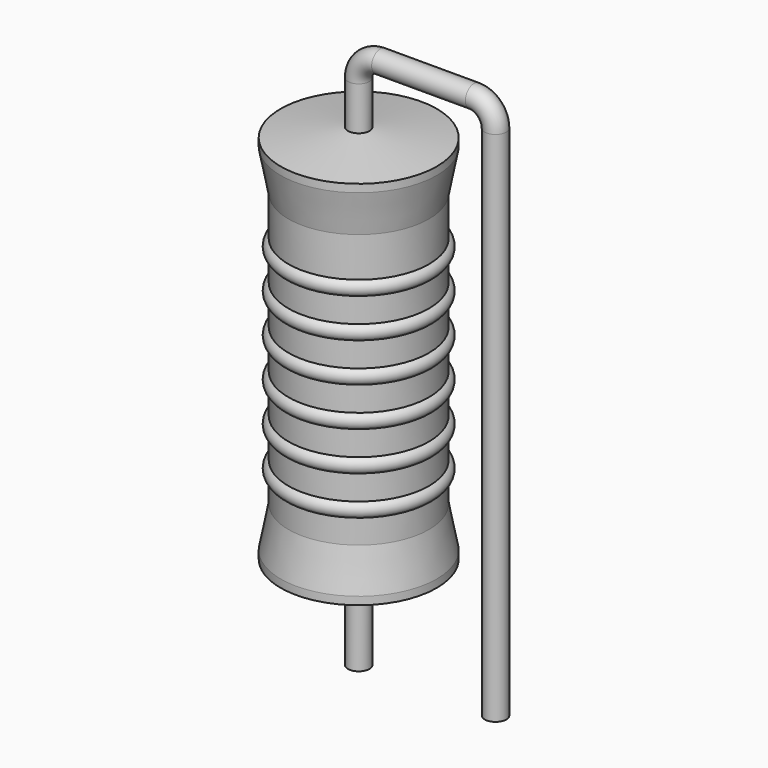
from build123d import *

# Parameters (mm, degrees)
SKETCH_R = 0.4


with BuildPart() as revolution:
    # Sketch002 → Revolution (revolve)
    with BuildSketch(Plane.XZ):
        Polygon((0, 0.1), (0, 14.6), (0.3, 14.6), (2.9, 14.2375), (2.9, 13.945), (2.61, 12.425), (2.61, 2.275), (2.9, 0.755), (2.9, 0.4625), (0.3, 0.1), align=None)
    revolve(axis=Axis((0, 0, 0), (0, 0, 1)))


with BuildPart() as sweep_body:
    # Sweep: sweep along a path in Sketch001
    with BuildLine(Plane.XZ) as sweep_path:
        Line((0, -3), (0, 16.2))
        ThreePointArc((0, 16.2), (0.23431, 16.765681), (0.799988, 17))
        Line((0.799988, 17), (4.28, 17))
        ThreePointArc((4.28, 17), (4.845685, 16.765685), (5.08, 16.2))
        Line((5.08, 16.2), (5.08, -3))
    # Sketch → Sweep (sweep)
    with BuildSketch(Plane.XY.offset(-2)):
        Circle(SKETCH_R)
    sweep(path=sweep_path.line)


with BuildPart() as obj1:
    # Sketch003 → Revolution001 (revolve)
    with BuildSketch(Plane.XZ):
        with BuildLine():
            Line((2.32, 11.845), (2.32, 2.275))
            Line((2.32, 2.275), (2.494, 2.275))
            Line((2.494, 2.275), (2.494, 3.145))
            ThreePointArc((2.494, 3.145), (2.784, 3.435), (2.494, 3.725))
            Line((2.494, 3.725), (2.494, 4.595))
            ThreePointArc((2.494, 4.595), (2.784, 4.885), (2.494, 5.175))
            Line((2.494, 5.175), (2.494, 6.045))
            ThreePointArc((2.494, 6.045), (2.784, 6.335), (2.494, 6.625))
            Line((2.494, 6.625), (2.494, 7.495))
            ThreePointArc((2.494, 7.495), (2.784, 7.785), (2.494, 8.075))
            Line((2.494, 8.075), (2.494, 8.945))
            ThreePointArc((2.494, 8.945), (2.784, 9.235), (2.494, 9.525))
            Line((2.494, 9.525), (2.494, 10.395))
            ThreePointArc((2.494, 10.395), (2.784, 10.685), (2.494, 10.975))
            Line((2.494, 11.845), (2.494, 10.975))
            Line((2.32, 11.845), (2.494, 11.845))
        make_face()
    revolve(axis=Axis((0, 0, 0), (0, 0, 1)))

    # obj1: union Revolution, Sweep body
    add(revolution.part)
    add(sweep_body.part)


solid = obj1.part
